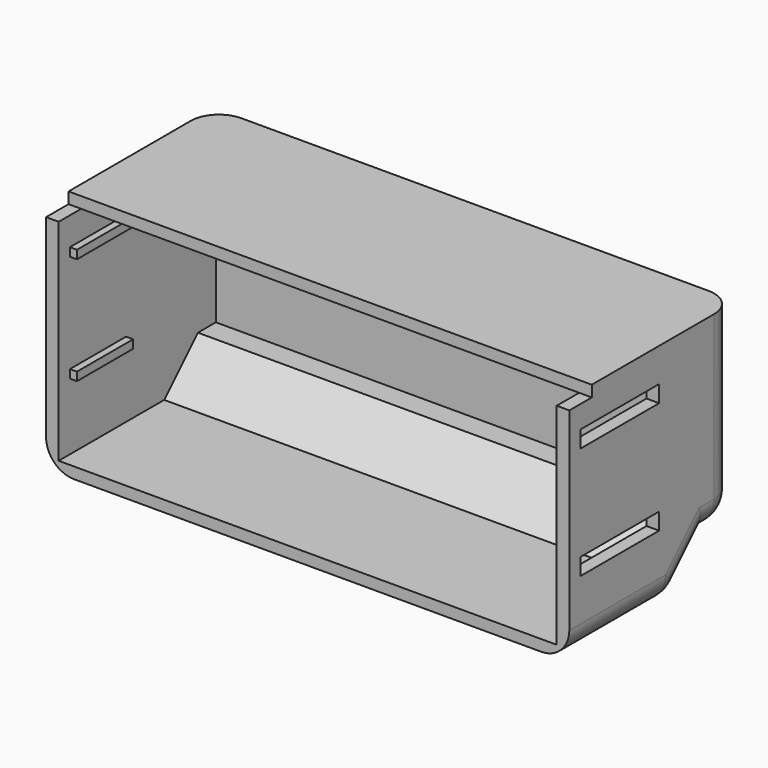
from build123d import *

# Parameters (mm, degrees)
F1_DEPTH       = 17
F3_W           = 0.5
F3_H           = 0.6
F4_DEPTH       = 5
F3_W_2         = 1
F3_H_2         = 1.2
F5_DEPTH       = 7
F7_W           = 2.5
F7_H           = 0.8
F8_DEPTH       = 37.3
F6_W           = 37.3
F6_H           = 12.9
F9_DEPTH       = 0.8
F10_W          = 9.4
F10_H          = 0.8
F11_DEPTH      = 36.4
F12_DEPTH      = 25
F12_DEPTH_BACK = 36.401
F13_DEPTH      = 0.901
F14_R          = 2


with BuildPart() as f1:
    # F0 (on Top) → F1 (new body)
    with BuildSketch(Plane.XY):
        Polygon((-0.9, 0), (0, 0), (0, 14), (35.5, 14), (35.5, 0), (36.4, 0), (36.4, 14.9), (-0.9, 14.9), align=None)
    extrude(amount=F1_DEPTH)

    # F3 (on offset) → F4 (join)
    with BuildSketch(Plane.XZ.offset(-1)):
        with Locations((0.25, 14.7)):
            Rectangle(F3_W, F3_H)
        with Locations((0.25, 7.05)):
            Rectangle(F3_W, F3_H)
    extrude(amount=-F4_DEPTH)

    # F3 (on offset) → F5 (cut)
    with BuildSketch(Plane.XZ.offset(-1)):
        with Locations((36, 14.8)):
            Rectangle(F3_W_2, F3_H_2)
        with Locations((36, 6.8)):
            Rectangle(F3_W_2, F3_H_2)
    extrude(amount=-F5_DEPTH, mode=Mode.SUBTRACT)

    # F7 (on face) → F8 (join, through all)
    with BuildSketch(Plane.YZ.offset(36.4)):
        with Locations((13.65, 4.6)):
            Rectangle(F7_W, F7_H)
    extrude(amount=-F8_DEPTH)

    # F6 (on face) → F9 (join)
    with BuildSketch(Plane.XY.offset(17)):
        with Locations((17.75, 8.45)):
            Rectangle(F6_W, F6_H)
    extrude(amount=F9_DEPTH)

    # F10 (on face) → F11 (join, through all)
    with BuildSketch(Plane(origin=(35.5, 0, 0), x_dir=(0, -1, 0), z_dir=(-1, 0, 0))):
        with Locations((-4.7, 1.6)):
            Rectangle(F10_W, F10_H)
        Polygon((-12.4, 4.2), (-9.4, 1.2), (-9.4, 2), (-12.4, 5), align=None)
    extrude(amount=F11_DEPTH)

    # F12 (cut, two sides): a face of the model
    f12_faces = [f1.faces().sort_by_distance(p)[0] for p in [
        (35.5, 7, 0.1461642911),
    ]]
    extrude(f12_faces, amount=-F12_DEPTH, mode=Mode.SUBTRACT)
    extrude(f12_faces, amount=F12_DEPTH_BACK, mode=Mode.SUBTRACT)

    # F13 (cut, through all): a face of the model
    f13_faces = [f1.faces().sort_by_distance(p)[0] for p in [
        (17.75, 14, 2.1),
    ]]
    extrude(f13_faces, amount=-F13_DEPTH, mode=Mode.SUBTRACT)

    # F14
    f14_edges = [f1.edges().sort_by_distance(p)[0] for p in [
        (17.75, 14.9, 4.2),
        (17.75, 9.4, 1.2),
        (-0.9, 4.7, 1.2),
        (36.4, 4.7, 1.2),
        (-0.9, 10.9, 2.7),
        (36.4, 10.9, 2.7),
        (36.4, 14.9, 11),
        (-0.9, 14.9, 11),
        (36.4, 13.65, 4.2),
        (-0.9, 13.65, 4.2),
    ]]
    fillet(f14_edges, radius=F14_R)


solid = f1.part
